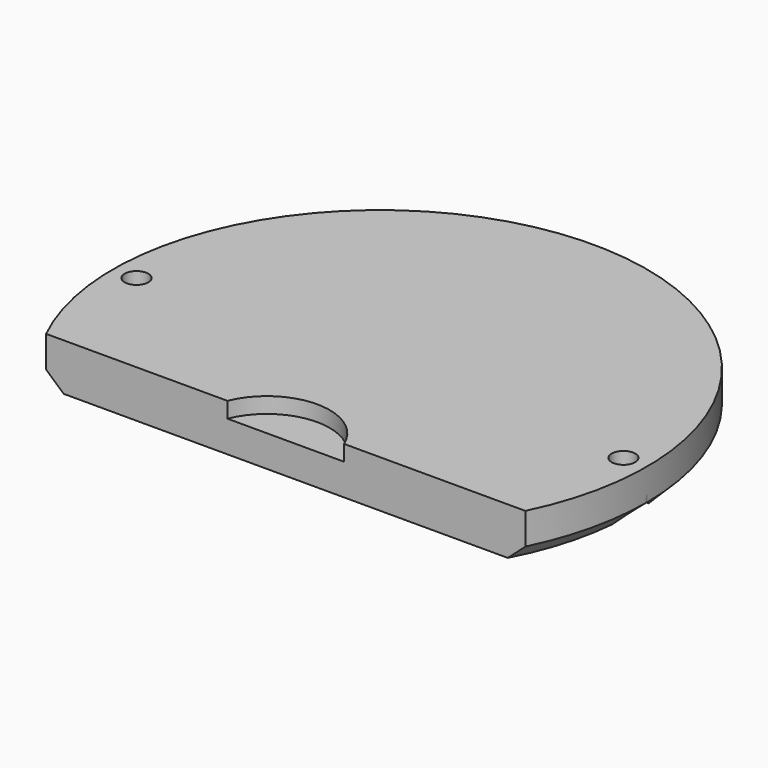
from build123d import *

# Parameters (mm, degrees)
CYLINDER1964_R               = 1.5
CYLINDER1964_DEPTH           = 50
CYLINDER1964_PLACEMENT_ANGLE = 45
CYLINDER1965_R               = 1.5
CYLINDER1965_DEPTH           = 50
CYLINDER1965_PLACEMENT_ANGLE = 45
CYLINDER1963_R               = 1.5
CYLINDER1963_DEPTH           = 50
CYLINDER1963_PLACEMENT_ANGLE = 45
CYLINDER1962_R               = 1.5
CYLINDER1962_DEPTH           = 50
CYLINDER1962_PLACEMENT_ANGLE = 45
CYLINDER1967_R               = 1.5
CYLINDER1967_DEPTH           = 50
CYLINDER1967_PLACEMENT_ANGLE = 45
CYLINDER1966_R               = 1.5
CYLINDER1966_DEPTH           = 50
CYLINDER1966_PLACEMENT_ANGLE = 45
CYLINDER1954_R               = 3
CYLINDER1954_DEPTH           = 3
CYLINDER1954_PLACEMENT_ANGLE = 45
CYLINDER1953_R               = 3
CYLINDER1953_DEPTH           = 3
CYLINDER1953_PLACEMENT_ANGLE = 45
CYLINDER1955_R               = 3
CYLINDER1955_DEPTH           = 3
CYLINDER1955_PLACEMENT_ANGLE = 45
CYLINDER1952_R               = 3
CYLINDER1952_DEPTH           = 3
CYLINDER1952_PLACEMENT_ANGLE = 45
CYLINDER1950_R               = 3
CYLINDER1950_DEPTH           = 3
CYLINDER1950_PLACEMENT_ANGLE = 45
CYLINDER1951_R               = 3
CYLINDER1951_DEPTH           = 3
CYLINDER1951_PLACEMENT_ANGLE = 45
CYLINDER1936_R               = 8
CYLINDER1936_DEPTH           = 6
BOX803_W                     = 148
BOX803_H                     = 40
BOX803_DEPTH                 = 40
CYLINDER1935_R               = 34
CYLINDER1935_DEPTH           = 6
CHAMFER065_SIZE              = 2


with BuildPart() as obj1:
    # Cylinder1964 → Cylinder1964 (new body)
    with BuildSketch(Plane.XY):
        Circle(CYLINDER1964_R)
    extrude(amount=CYLINDER1964_DEPTH)


with BuildPart() as obj1_1:
    # Cylinder1964 placement: moved
    add(obj1.part.moved(Location((20, 137, 0))).rotate(Axis((20, 137, 0), (0, 0, 1)), CYLINDER1964_PLACEMENT_ANGLE))


with BuildPart() as compound991:
    # Cylinder1965 → Cylinder1965 (new body)
    with BuildSketch(Plane.XY):
        Circle(CYLINDER1965_R)
    extrude(amount=CYLINDER1965_DEPTH)


with BuildPart() as compound991_1:
    # Cylinder1965 placement: moved
    add(compound991.part.moved(Location((-20, 137, 0))).rotate(Axis((-20, 137, 0), (0, 0, 1)), CYLINDER1965_PLACEMENT_ANGLE))

    # Compound991: union obj1
    add(obj1_1.part)


with BuildPart() as obj2:
    # Cylinder1963 → Cylinder1963 (new body)
    with BuildSketch(Plane.XY):
        Circle(CYLINDER1963_R)
    extrude(amount=CYLINDER1963_DEPTH)


with BuildPart() as obj2_1:
    # Cylinder1963 placement: moved
    add(obj2.part.moved(Location((31, 131, 0))).rotate(Axis((31, 131, 0), (0, 0, 1)), CYLINDER1963_PLACEMENT_ANGLE))


with BuildPart() as compound992:
    # Cylinder1962 → Cylinder1962 (new body)
    with BuildSketch(Plane.XY):
        Circle(CYLINDER1962_R)
    extrude(amount=CYLINDER1962_DEPTH)


with BuildPart() as compound992_1:
    # Cylinder1962 placement: moved
    add(compound992.part.moved(Location((-31, 131, 0))).rotate(Axis((-31, 131, 0), (0, 0, 1)), CYLINDER1962_PLACEMENT_ANGLE))

    # Compound992: union obj2
    add(obj2_1.part)


with BuildPart() as obj3:
    # Cylinder1967 → Cylinder1967 (new body)
    with BuildSketch(Plane.XY):
        Circle(CYLINDER1967_R)
    extrude(amount=CYLINDER1967_DEPTH)


with BuildPart() as obj3_1:
    # Cylinder1967 placement: moved
    add(obj3.part.moved(Location((31, 101, 0))).rotate(Axis((31, 101, 0), (0, 0, 1)), CYLINDER1967_PLACEMENT_ANGLE))


with BuildPart() as compound994:
    # Cylinder1966 → Cylinder1966 (new body)
    with BuildSketch(Plane.XY):
        Circle(CYLINDER1966_R)
    extrude(amount=CYLINDER1966_DEPTH)


with BuildPart() as compound994_1:
    # Cylinder1966 placement: moved
    add(compound994.part.moved(Location((-31, 101, 0))).rotate(Axis((-31, 101, 0), (0, 0, 1)), CYLINDER1966_PLACEMENT_ANGLE))

    # Compound993: union obj3
    add(obj3_1.part)

    # Compound994: union Compound991, Compound992
    add(compound991_1.part)
    add(compound992_1.part)


with BuildPart() as obj4:
    # Cylinder1954 → Cylinder1954 (new body)
    with BuildSketch(Plane.XY):
        Circle(CYLINDER1954_R)
    extrude(amount=CYLINDER1954_DEPTH)


with BuildPart() as obj4_1:
    # Cylinder1954 placement: moved
    add(obj4.part.moved(Location((31, 131, 0))).rotate(Axis((31, 131, 0), (0, 0, 1)), CYLINDER1954_PLACEMENT_ANGLE))


with BuildPart() as compound982:
    # Cylinder1953 → Cylinder1953 (new body)
    with BuildSketch(Plane.XY):
        Circle(CYLINDER1953_R)
    extrude(amount=CYLINDER1953_DEPTH)


with BuildPart() as compound982_1:
    # Cylinder1953 placement: moved
    add(compound982.part.moved(Location((-31, 131, 0))).rotate(Axis((-31, 131, 0), (0, 0, 1)), CYLINDER1953_PLACEMENT_ANGLE))

    # Compound982: union obj4
    add(obj4_1.part)


with BuildPart() as compound982_2:
    # Compound982 placement: moved
    add(compound982_1.part.moved(Location((0, 0, 25))))


with BuildPart() as obj5:
    # Cylinder1955 → Cylinder1955 (new body)
    with BuildSketch(Plane.XY):
        Circle(CYLINDER1955_R)
    extrude(amount=CYLINDER1955_DEPTH)


with BuildPart() as obj5_1:
    # Cylinder1955 placement: moved
    add(obj5.part.moved(Location((31, 101, 0))).rotate(Axis((31, 101, 0), (0, 0, 1)), CYLINDER1955_PLACEMENT_ANGLE))


with BuildPart() as compound984:
    # Cylinder1952 → Cylinder1952 (new body)
    with BuildSketch(Plane.XY):
        Circle(CYLINDER1952_R)
    extrude(amount=CYLINDER1952_DEPTH)


with BuildPart() as compound984_1:
    # Cylinder1952 placement: moved
    add(compound984.part.moved(Location((-31, 101, 0))).rotate(Axis((-31, 101, 0), (0, 0, 1)), CYLINDER1952_PLACEMENT_ANGLE))

    # Compound984: union obj5
    add(obj5_1.part)


with BuildPart() as compound984_2:
    # Compound984 placement: moved
    add(compound984_1.part.moved(Location((0, 0, 21))))


with BuildPart() as obj6:
    # Cylinder1950 → Cylinder1950 (new body)
    with BuildSketch(Plane.XY):
        Circle(CYLINDER1950_R)
    extrude(amount=CYLINDER1950_DEPTH)


with BuildPart() as obj6_1:
    # Cylinder1950 placement: moved
    add(obj6.part.moved(Location((20, 137, 0))).rotate(Axis((20, 137, 0), (0, 0, 1)), CYLINDER1950_PLACEMENT_ANGLE))


with BuildPart() as compound985:
    # Cylinder1951 → Cylinder1951 (new body)
    with BuildSketch(Plane.XY):
        Circle(CYLINDER1951_R)
    extrude(amount=CYLINDER1951_DEPTH)


with BuildPart() as compound985_1:
    # Cylinder1951 placement: moved
    add(compound985.part.moved(Location((-20, 137, 0))).rotate(Axis((-20, 137, 0), (0, 0, 1)), CYLINDER1951_PLACEMENT_ANGLE))

    # Compound983: union obj6
    add(obj6_1.part)


with BuildPart() as compound985_2:
    # Compound983 placement: moved
    add(compound985_1.part.moved(Location((0, 0, 25))))

    # Compound985: union Compound982, Compound984
    add(compound982_2.part)
    add(compound984_2.part)


with BuildPart() as obj7:
    # Cylinder1936 → Cylinder1936 (new body)
    with BuildSketch(Plane(origin=(0, 83, 25), x_dir=(1, 0, 0), z_dir=(0, 0, 1))):
        Circle(CYLINDER1936_R)
    extrude(amount=CYLINDER1936_DEPTH)


with BuildPart() as krychle803:
    # Box803 → Box803 (new body)
    with BuildSketch(Plane(origin=(-74, 46, 16), x_dir=(1, 0, 0), z_dir=(0, 0, 1))):
        with Locations((74, 20)):
            Rectangle(BOX803_W, BOX803_H)
    extrude(amount=BOX803_DEPTH)


with BuildPart() as cut622:
    # Cylinder1935 → Cylinder1935 (new body)
    with BuildSketch(Plane(origin=(0, 101, 21), x_dir=(1, 0, 0), z_dir=(0, 0, 1))):
        Circle(CYLINDER1935_R)
    extrude(amount=CYLINDER1935_DEPTH)

    # Cut615: cut Krychle803
    add(krychle803.part, mode=Mode.SUBTRACT)

    # Cut616: cut obj7
    add(obj7.part, mode=Mode.SUBTRACT)

    # Chamfer065
    chamfer065_edges = [cut622.edges().sort_by_distance(p)[0] for p in [
        (-7.700067, 134.116597, 21),
    ]]
    chamfer(chamfer065_edges, length=CHAMFER065_SIZE)

    # Cut619: cut Compound985
    add(compound985_2.part, mode=Mode.SUBTRACT)

    # Cut622: cut Compound994
    add(compound994_1.part, mode=Mode.SUBTRACT)


solid = cut622.part
